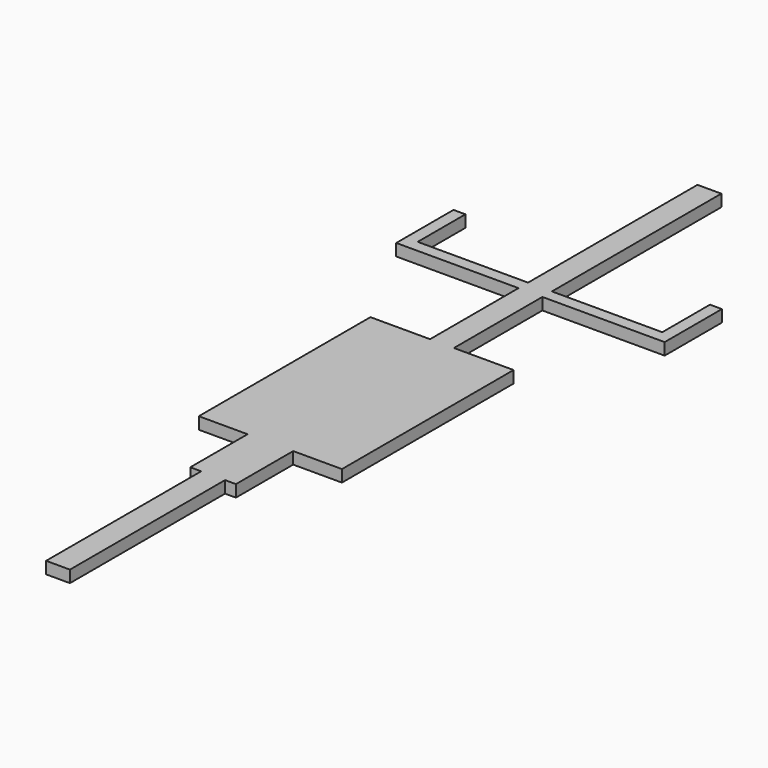
from build123d import *

# Parameters (mm, degrees)
F0_W     = 50.8
F0_H     = 412.75
F0_W_2   = 23.167712307
F0_H_2   = 152.4
F0_H_3   = 69.3220067978
F0_H_4   = 387.4254058838
F0_H_5   = 235.4025873184
F0_H_6   = 25.4
F0_H_7   = 450.85
F1_DEPTH = 25.4


with BuildPart() as f1:
    # F0 (on Top) → F1 (new body)
    with BuildSketch(Plane.XY):
        with Locations((0, 206.375)):
            Rectangle(F0_W, F0_H)
        with Locations((-36.9838561535, 488.95)):
            Rectangle(F0_W_2, F0_H_2)
        with Locations((0, 488.95)):
            Rectangle(F0_W, F0_H_2)
        with Locations((36.9838561535, 488.95)):
            Rectangle(F0_W_2, F0_H_2)
        with Locations((-36.9838561535, 599.8110033989)):
            Rectangle(F0_W_2, F0_H_3)
        with Locations((36.9838561535, 599.8110033989)):
            Rectangle(F0_W_2, F0_H_3)
        Polygon((-48.567712307, 634.4720067978), (-25.4, 634.4720067978), (-25.4, 1021.8974126816), (-152.4, 1021.8974126816), (-152.4, 565.15), (-48.567712307, 565.15), align=None)
        with Locations((0, 828.1847097397)):
            Rectangle(F0_W, F0_H_4)
        Polygon((25.4, 1021.8974126816), (25.4, 634.4720067978), (48.567712307, 634.4720067978), (48.567712307, 565.15), (152.4, 565.15), (152.4, 1021.8974126816), align=None)
        with Locations((0, 1139.5987063408)):
            Rectangle(F0_W, F0_H_5)
        Polygon((-285.75, 1257.3), (-25.4, 1257.3), (-25.4, 1282.7), (-260.35, 1282.7), (-260.35, 1409.7), (-285.75, 1409.7), align=None)
        with Locations((0, 1270)):
            Rectangle(F0_W, F0_H_6)
        Polygon((25.4, 1282.7), (25.4, 1257.3), (285.75, 1257.3), (285.75, 1409.7), (260.35, 1409.7), (260.35, 1282.7), align=None)
        with Locations((0, 1508.125)):
            Rectangle(F0_W, F0_H_7)
        with Locations((0, 599.8110033989)):
            Rectangle(F0_W, F0_H_3)
    extrude(amount=F1_DEPTH)


solid = f1.part
